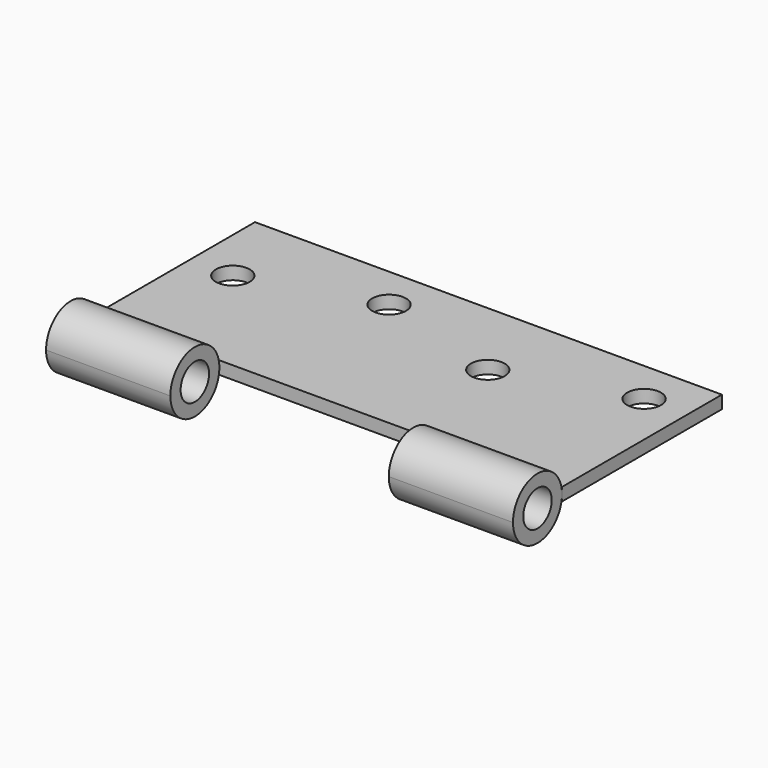
from build123d import *

# Parameters (mm, degrees)
F0_W          = 101.4095
F0_H          = 43.3959
F1_DEPTH      = 2.794
F2_R          = 6.6548
F2_R_2        = 3.8608
F3_DEPTH      = 101.3968
F4_R          = 6.6548
F4_R_2        = 3.8608
F5_DEPTH      = 23.71725
F5_DEPTH_BACK = 23.71725
F7_D          = 7.3533
F7_DEPTH      = 12.7


with BuildPart() as f1:
    # F0 (on Top) → F1 (new body)
    with BuildSketch(Plane.XY):
        Rectangle(F0_W, F0_H)
    extrude(amount=F1_DEPTH)

    # F2 (on face) → F3 (join)
    with BuildSketch(Plane(origin=(-50.70475, 0, 0), x_dir=(0, -1, 0), z_dir=(-1, 0, 0))):
        with Locations((28.35275, 1.397)):
            Circle(F2_R)
        with Locations((28.35275, 1.397)):
            Circle(F2_R_2, mode=Mode.SUBTRACT)
    extrude(amount=-F3_DEPTH)

    # F4 (on Right) → F5 (cut, two sides)
    with BuildSketch(Plane.YZ) as f5_sk:
        with Locations((-28.35275, 1.397)):
            Circle(F4_R)
        with Locations((-28.35275, 1.397)):
            Circle(F4_R_2, mode=Mode.SUBTRACT)
    extrude(amount=F5_DEPTH, mode=Mode.SUBTRACT)
    extrude(f5_sk.sketch, amount=-F5_DEPTH_BACK, mode=Mode.SUBTRACT)

    # F7
    with Locations(Plane.XY.offset(2.794)):
        with Locations((41.37025, 12.23645), (14.01445, 4.00685), (-14.01445, 12.23645), (-41.37025, 4.00685)):
            Hole(F7_D / 2, depth=F7_DEPTH)


solid = f1.part
